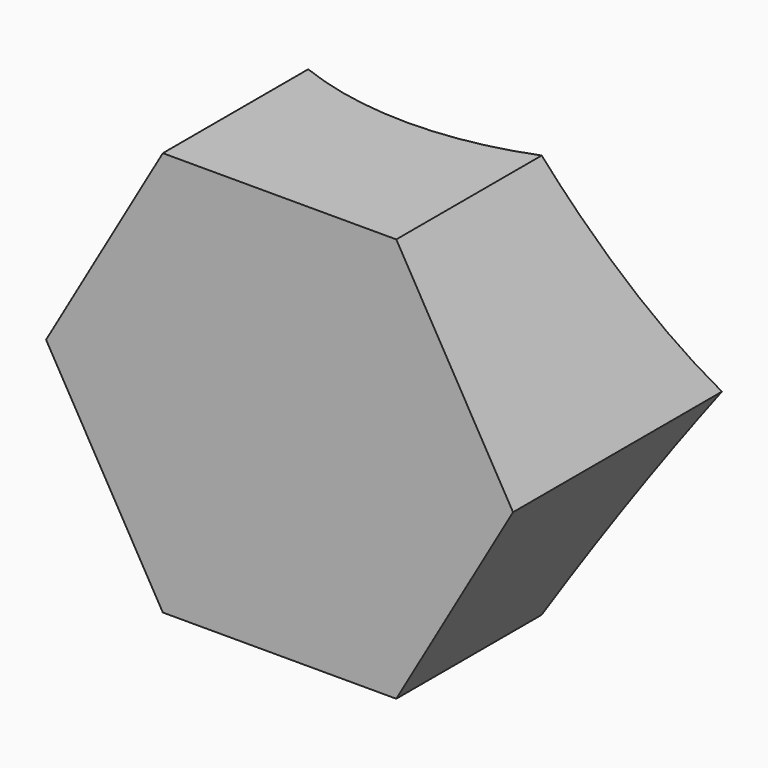
from build123d import *

# Parameters (mm, degrees)
F1_DEPTH = 9
F3_DEPTH = 25


with BuildPart() as f1:
    # F0 (on Front) → F1 (new body)
    with BuildSketch(Plane.XZ):
        Polygon((2.193931, 3.8), (-2.193931, 3.8), (-4.387862, 0), (-2.193931, -3.8), (2.193931, -3.8), (4.387862, 0), align=None)
    extrude(amount=F1_DEPTH)

    # F2 (on face) → F3 (cut)
    with BuildSketch(Plane.XY.offset(3.8)):
        with BuildLine():
            Line((-2.193931, 0), (-2.193931, -5.584502))
            ThreePointArc((-2.193931, -5.584502), (0, -6), (2.193931, -5.584502))
            Line((2.193931, -5.584502), (2.193931, 0))
            Line((2.193931, 0), (-2.193931, 0))
        make_face()
        with BuildLine():
            ThreePointArc((2.193931, -5.584502), (4.958003, -3.379084), (6, 0))
            ThreePointArc((6, 0), (-3.379084, 4.958003), (-2.193931, -5.584502))
            Line((-2.193931, -5.584502), (-2.193931, 0))
            Line((-2.193931, 0), (2.193931, 0))
            Line((2.193931, 0), (2.193931, -5.584502))
        make_face()
    extrude(amount=-F3_DEPTH, mode=Mode.SUBTRACT)


solid = f1.part
